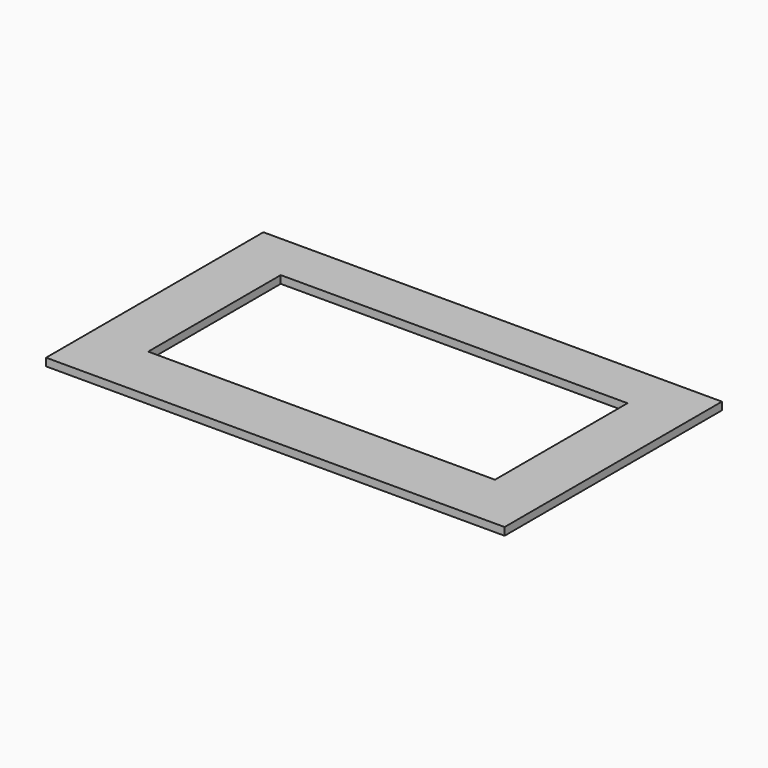
from build123d import *

# Parameters (mm, degrees)
SKETCH_W   = 238
SKETCH_H   = 141
SKETCH_W_2 = 180
SKETCH_H_2 = 86
PAD_DEPTH  = 4


with BuildPart() as part:
    # Sketch → Pad (new body)
    with BuildSketch(Plane.XY):
        Rectangle(SKETCH_W, SKETCH_H)
        with Locations((0, 2.5)):
            Rectangle(SKETCH_W_2, SKETCH_H_2, mode=Mode.SUBTRACT)
    extrude(amount=PAD_DEPTH)


solid = part.part
